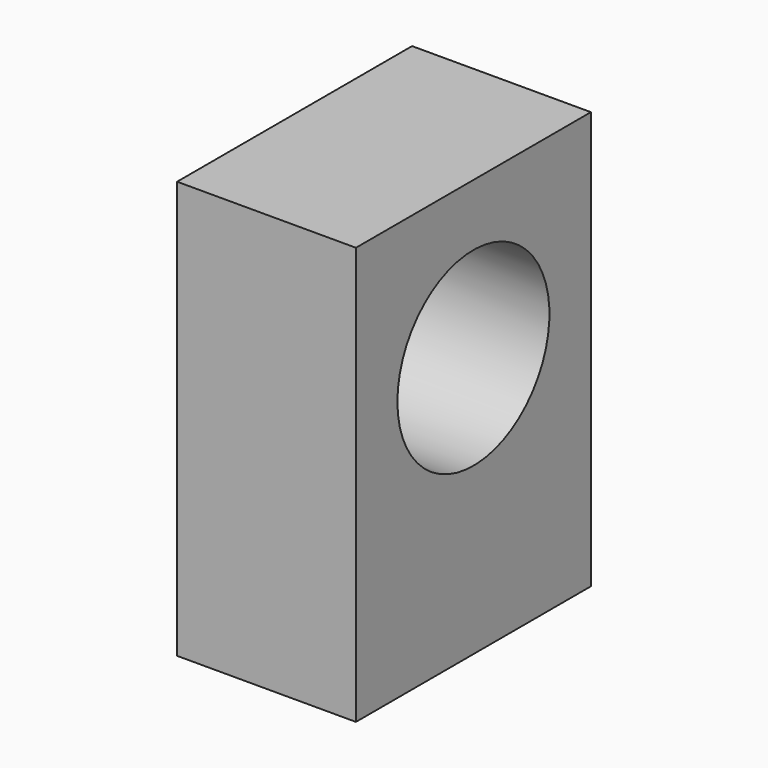
from build123d import *

# Parameters (mm, degrees)
F1_W     = 51.759996
F1_H     = 120.813712
F2_DEPTH = 85
F4_D     = 55


with BuildPart() as f2:
    # F1 (on face) → F2 (new body)
    with BuildSketch(Plane.XZ):
        with Locations((25.879998, 21.201633)):
            Rectangle(F1_W, F1_H)
    extrude(amount=F2_DEPTH)

    # F4 (through all)
    with Locations(Plane.YZ.offset(51.759996)):
        with Locations((-42.5, 36.272544)):
            Hole(F4_D / 2)


solid = f2.part
